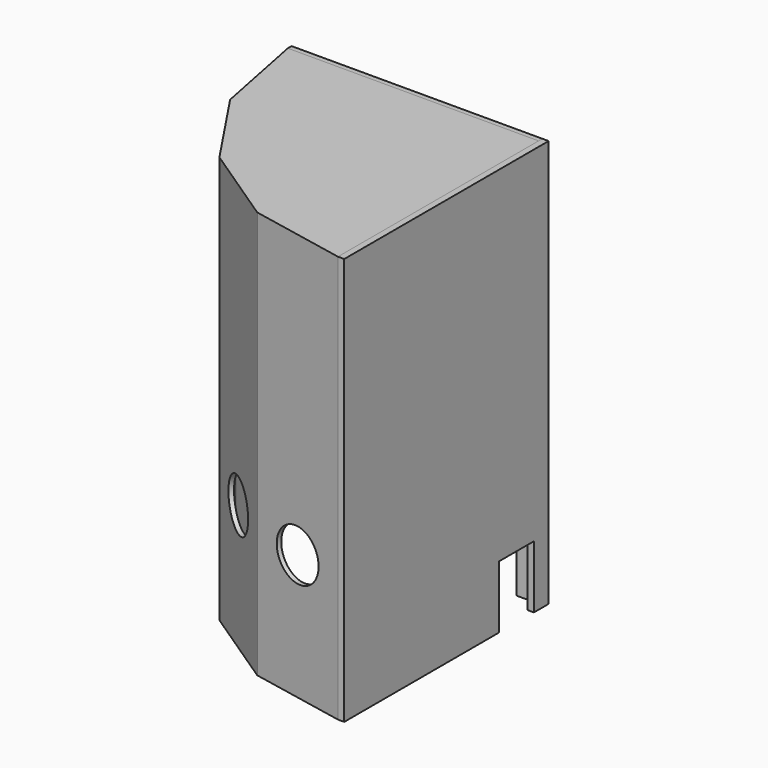
from build123d import *

# Parameters (mm, degrees)
BOX001_W        = 90
BOX001_H        = 90
BOX001_DEPTH    = 130
BOX_W           = 90
BOX_H           = 180
BOX_DEPTH       = 130
PRISM001_DEPTH  = 128.5
PRISM_DEPTH     = 130
SKETCH001_R     = 8.1
POCKET_DEPTH    = 3
SKETCH002_R     = 8.1
POCKET001_DEPTH = 3
SKETCH003_R     = 8.1
POCKET002_DEPTH = 3
SKETCH004_R     = 8.1
POCKET003_DEPTH = 3
BOX003_W        = 2
BOX003_H        = 81.5
BOX003_DEPTH    = 130
SKETCH005_W     = 14
SKETCH005_H     = 20
POCKET004_DEPTH = 3
BOX002_W        = 80
BOX002_H        = 1.5
BOX002_DEPTH    = 130
SKETCH006_W     = 14
SKETCH006_H     = 20
POCKET005_DEPTH = 2


with BuildPart() as cubo001:
    # Box001 → Box001 (new body)
    with BuildSketch(Plane(origin=(-90, 0, 0), x_dir=(1, 0, 0), z_dir=(0, 0, 1))):
        with Locations((45, 45)):
            Rectangle(BOX001_W, BOX001_H)
    extrude(amount=BOX001_DEPTH)


with BuildPart() as cubo:
    # Box → Box (new body)
    with BuildSketch(Plane(origin=(0, -90, 0), x_dir=(1, 0, 0), z_dir=(0, 0, 1))):
        with Locations((45, 90)):
            Rectangle(BOX_W, BOX_H)
    extrude(amount=BOX_DEPTH)


with BuildPart() as prisma001:
    # Prism001 → Prism001 (new body)
    with BuildSketch(Plane.XY):
        Polygon((78.5, 0), (72.5245433021, 30.0406494407), (55.5078823231, 55.5078823231), (30.0406494407, 72.5245433021), (0, 78.5), (-30.0406494407, 72.5245433021), (-55.5078823231, 55.5078823231), (-72.5245433021, 30.0406494407), (-78.5, 0), (-72.5245433021, -30.0406494407), (-55.5078823231, -55.5078823231), (-30.0406494407, -72.5245433021), (0, -78.5), (30.0406494407, -72.5245433021), (55.5078823231, -55.5078823231), (72.5245433021, -30.0406494407), align=None)
    extrude(amount=PRISM001_DEPTH)


with BuildPart() as pocket003:
    # Prism → Prism (new body)
    with BuildSketch(Plane.XY):
        Polygon((80, 0), (73.9103626009, 30.6146745892), (56.5685424949, 56.5685424949), (30.6146745892, 73.9103626009), (0, 80), (-30.6146745892, 73.9103626009), (-56.5685424949, 56.5685424949), (-73.9103626009, 30.6146745892), (-80, 0), (-73.9103626009, -30.6146745892), (-56.5685424949, -56.5685424949), (-30.6146745892, -73.9103626009), (0, -80), (30.6146745892, -73.9103626009), (56.5685424949, -56.5685424949), (73.9103626009, -30.6146745892), align=None)
    extrude(amount=PRISM_DEPTH)

    # Cut: cut Prisma001
    add(prisma001.part, mode=Mode.SUBTRACT)

    # Cut001: cut Cubo
    add(cubo.part, mode=Mode.SUBTRACT)

    # Cut002: cut Cubo001
    add(cubo001.part, mode=Mode.SUBTRACT)

    # Sketch001 → Pocket (cut)
    with BuildSketch(Plane(origin=(-76.9551813005, -15.3073372946, 0), x_dir=(0.195090322, -0.9807852804, 0), z_dir=(-0.9807852804, -0.195090322, 0))):
        with Locations((-0.087106, 40)):
            Circle(SKETCH001_R)
    extrude(amount=-POCKET_DEPTH, mode=Mode.SUBTRACT)

    # Sketch002 → Pocket001 (cut)
    with BuildSketch(Plane(origin=(-65.2394525479, -43.5916085421, 0), x_dir=(0.555570233, -0.8314696123, 0), z_dir=(-0.8314696123, -0.555570233, 0))):
        with Locations((-0.050397, 40)):
            Circle(SKETCH002_R)
    extrude(amount=-POCKET001_DEPTH, mode=Mode.SUBTRACT)

    # Sketch003 → Pocket002 (cut)
    with BuildSketch(Plane(origin=(-43.5916085421, -65.2394525479, 0), x_dir=(0.8314696123, -0.555570233, 0), z_dir=(-0.555570233, -0.8314696123, 0))):
        with Locations((-0.05246, 40)):
            Circle(SKETCH003_R)
    extrude(amount=-POCKET002_DEPTH, mode=Mode.SUBTRACT)

    # Sketch004 → Pocket003 (cut)
    with BuildSketch(Plane(origin=(-15.3073372946, -76.9551813005, 0), x_dir=(0.9807852804, -0.195090322, 0), z_dir=(-0.195090322, -0.9807852804, 0))):
        with Locations((0.018064, 40)):
            Circle(SKETCH004_R)
    extrude(amount=-POCKET003_DEPTH, mode=Mode.SUBTRACT)


with BuildPart() as pocket004:
    # Box003 → Box003 (new body)
    with BuildSketch(Plane(origin=(0, -80, 0), x_dir=(1, 0, 0), z_dir=(0, 0, 1))):
        with Locations((1, 40.75)):
            Rectangle(BOX003_W, BOX003_H)
    extrude(amount=BOX003_DEPTH)

    # Sketch005 → Pocket004 (cut)
    with BuildSketch(Plane(origin=(2, -80, 0), x_dir=(0, 1, 0), z_dir=(1, 0, 0))):
        with Locations((68.6361033238, 10)):
            Rectangle(SKETCH005_W, SKETCH005_H)
    extrude(amount=-POCKET004_DEPTH, mode=Mode.SUBTRACT)


with BuildPart() as pocket005:
    # Box002 → Box002 (new body)
    with BuildSketch(Plane(origin=(-80, 0, 0), x_dir=(1, 0, 0), z_dir=(0, 0, 1))):
        with Locations((40, 0.75)):
            Rectangle(BOX002_W, BOX002_H)
    extrude(amount=BOX002_DEPTH)

    # Sketch006 → Pocket005 (cut)
    with BuildSketch(Plane(origin=(-80, 1.5, 0), x_dir=(-1, 0, 0), z_dir=(0, 1, 0))):
        with Locations((-65.8796411845, 10)):
            Rectangle(SKETCH006_W, SKETCH006_H)
    extrude(amount=-POCKET005_DEPTH, mode=Mode.SUBTRACT)


solid = Compound([pocket003.part, pocket004.part, pocket005.part])
